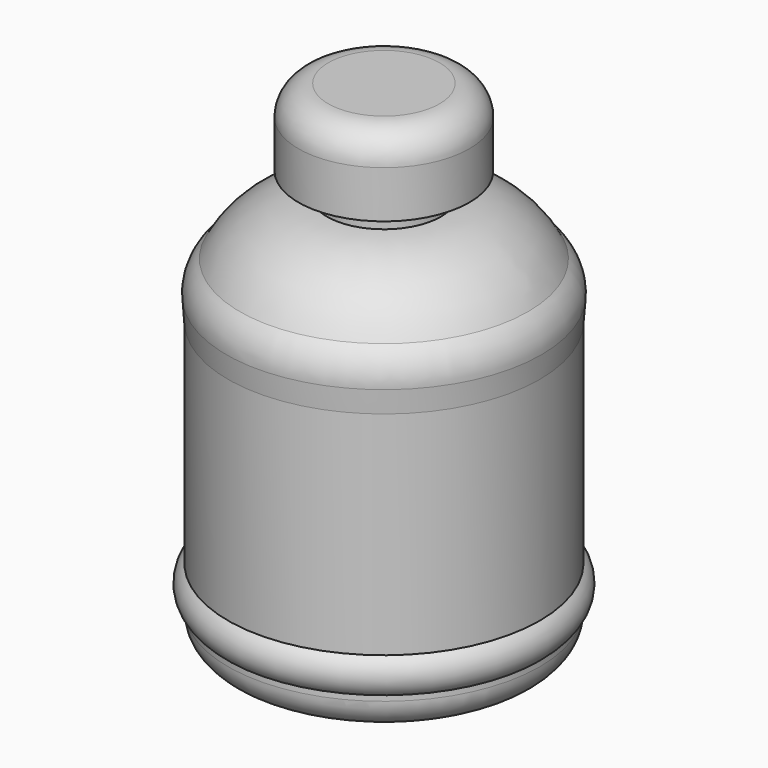
from build123d import *

# Parameters (mm, degrees)
F2_R = 5.08


with BuildPart() as f1:
    # F0 (on Front) → F1 (revolve)
    with BuildSketch(Plane.XZ):
        with BuildLine():
            Line((14.547274, 52.341659), (0, 52.341659))
            Line((0, 52.341659), (0, -31.519093))
            Line((0, -31.519093), (26.525347, -31.519093))
            Line((26.525347, -31.519093), (26.525347, -25.529038))
            ThreePointArc((26.525347, -25.529038), (27.977655, -22.534011), (26.525347, -19.538984))
            Line((26.525347, -19.538984), (26.525347, 16.600349))
            Line((26.525347, 16.600349), (26.812619, 20.394707))
            ThreePointArc((26.812619, 20.394707), (26.333622, 23.511899), (24.530694, 26.099518))
            ThreePointArc((24.530694, 26.099518), (18.380872, 32.801583), (9.698181, 35.512462))
            Line((9.698181, 35.512462), (9.698181, 39.22059))
            Line((9.698181, 39.22059), (14.547274, 39.22059))
            Line((14.547274, 39.22059), (14.547274, 52.341659))
        make_face()
    revolve(axis=Axis((0, 0, 10.411283), (0, 0, -1)))

    # F2
    f2_edges = [f1.edges().sort_by_distance(p)[0] for p in [
        (-14.547274, 0, 52.341659),
        (-26.525347, 0, -31.519093),
    ]]
    fillet(f2_edges, radius=F2_R)


with BuildPart() as f3_1:
    # F3: copy of F1
    add(f1.part)


solid = Compound([f1.part, f3_1.part])
